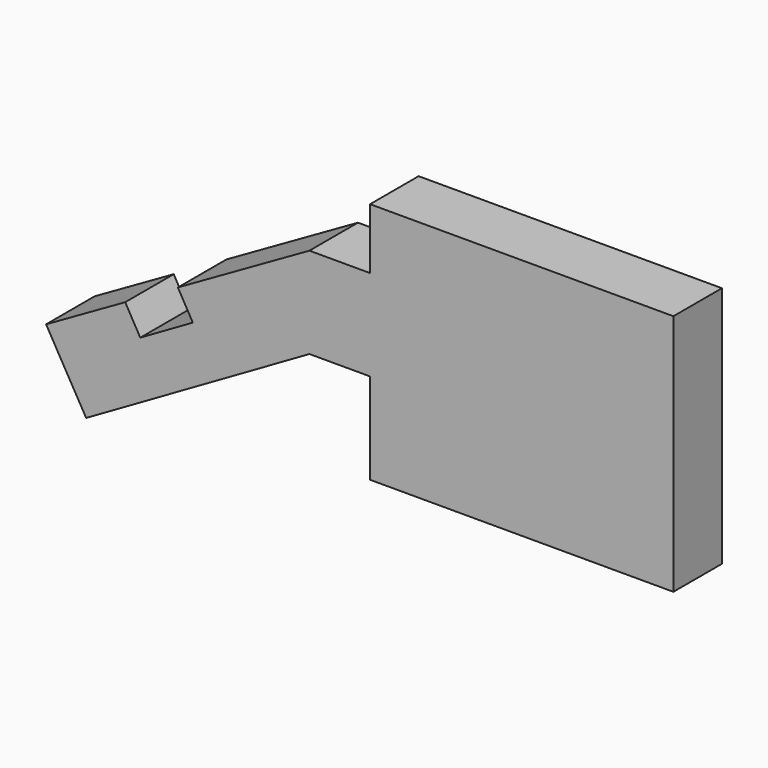
from build123d import *

# Parameters (mm, degrees)
F1_DEPTH = 30


with BuildPart() as f1:
    # F0 (on Front) → F1 (new body)
    with BuildSketch(Plane.XZ):
        Polygon((0, 45), (0, 0), (150, 0), (150, 120), (0, 120), (0, 90), (90, 90), (90, 45), align=None)
        Polygon((-30, 45), (0, 45), (90, 45), (90, 90), (0, 90), (-30, 90), (-95.052428, 52.828978), (-87.677196, 39.921699), (-113.657958, 24.921699), (-121.099771, 37.9455), (-160.238019, 15.581867), (-140.416939, -18.74925), align=None)
    extrude(amount=F1_DEPTH)


solid = f1.part
